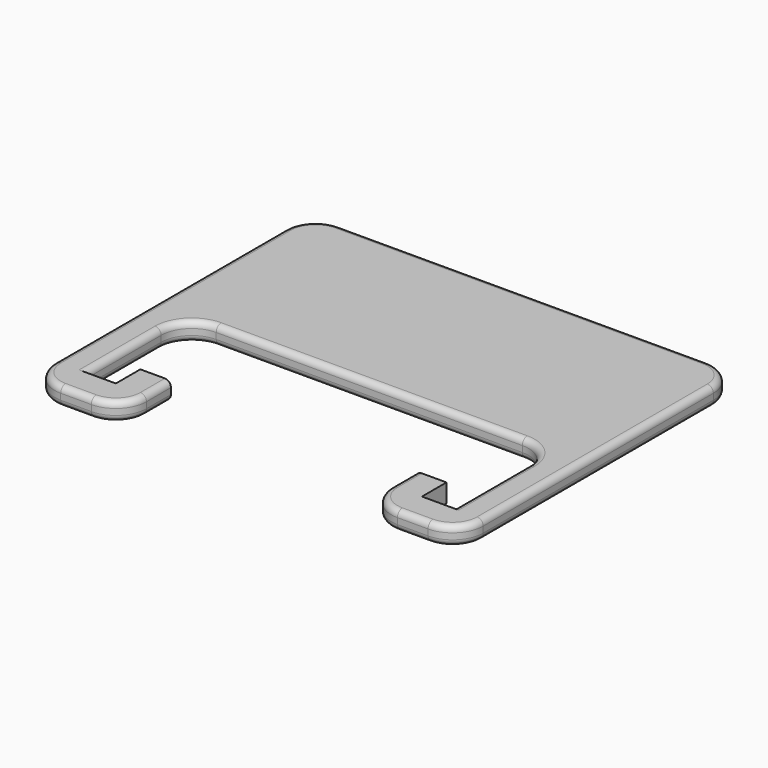
from build123d import *

# Parameters (mm, degrees)
F1_DEPTH = 3
F2_R     = 5
F3_R     = 1


with BuildPart() as f1:
    # F0 (on Top) → F1 (new body)
    with BuildSketch(Plane.XY):
        Polygon((35, -22.5), (35, 22.5), (-35, 22.5), (-35, -22.5), (-35, -34.5), (-20, -34.5), (-20, -24.5), (-25, -24.5), (-25, -29.5), (-30, -29.5), (-30, -9), (30, -9), (30, -29.5), (25, -29.5), (25, -24.5), (20, -24.5), (20, -34.5), (35, -34.5), align=None)
    extrude(amount=F1_DEPTH)

    # F2
    f2_edges = [f1.edges().sort_by_distance(p)[0] for p in [
        (-35, -34.5, 1.5),
        (-20, -34.5, 1.5),
        (-30, -9, 1.5),
        (35, -34.5, 1.5),
        (20, -34.5, 1.5),
        (35, 22.5, 1.5),
        (-35, 22.5, 1.5),
        (30, -9, 1.5),
    ]]
    fillet(f2_edges, radius=F2_R)

    # F3
    f3_edges = [f1.edges().sort_by_distance(p)[0] for p in [
        (0, 22.5, 3),
        (0, 22.5, 0),
        (0, -9, 3),
        (30, -21.75, 3),
        (0, -9, 0),
        (30, -21.75, 0),
    ]]
    fillet(f3_edges, radius=F3_R)


solid = f1.part
